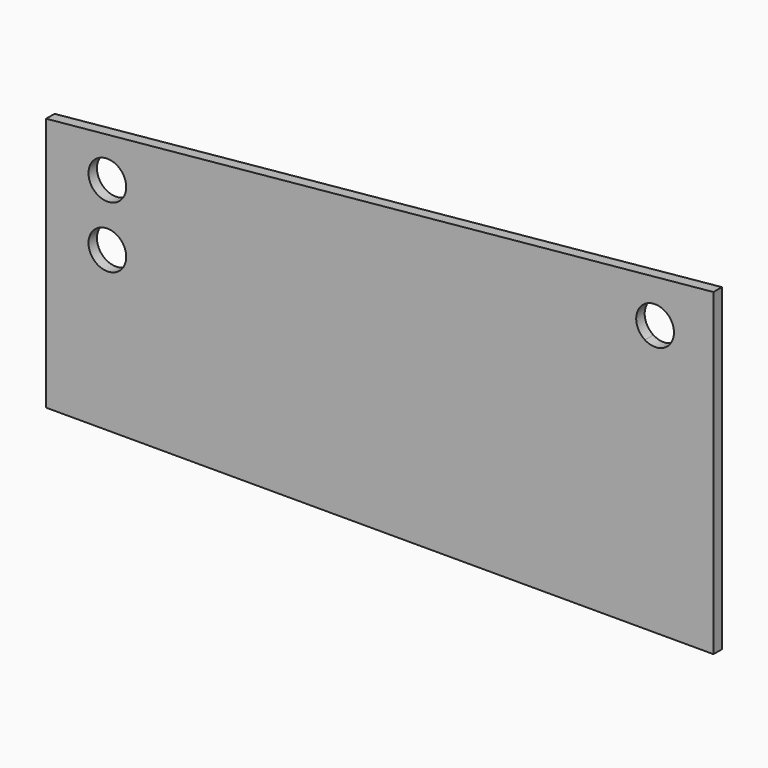
from build123d import *

# Parameters (mm, degrees)
F0_R     = 5.6515
F1_DEPTH = 3.175


with BuildPart() as f1:
    # F0 (on Front) → F1 (new body)
    with BuildSketch(Plane.XZ):
        with BuildLine():
            Line((0, 76.2), (0, 0))
            Line((0, 0), (199.898, 0))
            Line((199.898, 0), (199.898, 76.2))
            Line((199.898, 76.2), (185.452804, 76.2))
            ThreePointArc((185.452804, 76.2), (182.4101, 75.311), (179.367396, 76.2))
            Line((179.367396, 76.2), (0, 76.2))
        make_face()
        with Locations((18.3515, 47.5615)):
            Circle(F0_R, mode=Mode.SUBTRACT)
        with Locations((18.3515, 65.9765)):
            Circle(F0_R, mode=Mode.SUBTRACT)
        with BuildLine():
            Line((199.898, 95.504), (0, 76.2))
            Line((0, 76.2), (179.367396, 76.2))
            ThreePointArc((179.367396, 76.2), (179.694993, 85.919076), (188.0616, 80.9625))
            ThreePointArc((188.0616, 80.9625), (187.366676, 78.247393), (185.452804, 76.2))
            Line((185.452804, 76.2), (199.898, 76.2))
            Line((199.898, 76.2), (199.898, 95.504))
        make_face()
    extrude(amount=F1_DEPTH)


solid = f1.part
